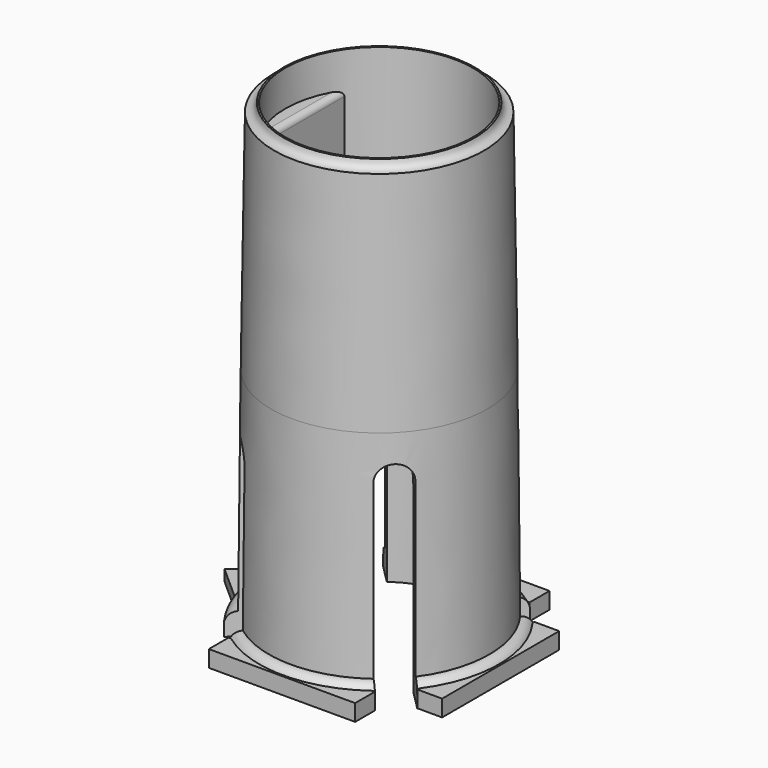
from build123d import *

# Parameters (mm, degrees)
POCKET023_DEPTH         = 31.087389
POCKET023_DEPTH_BACK    = 31.087389
POCKET024_DEPTH         = 31.087389
POCKET024_DEPTH_BACK    = 31.087389
PAD_DEPTH               = 36
PAD017_DEPTH            = 15
SKETCH146_R             = 1.1
POCKET047_DEPTH         = 59.131334
POCKET048_DEPTH         = 16
SKETCH148_R             = 1.9
POCKET049_DEPTH         = 10
SKETCH149_R             = 4.5
POCKET050_DEPTH         = 3
POCKET051_DEPTH         = 31.087389
FILLET_R                = 1
FILLET001_R             = 2
PAD019_DEPTH            = 2
SKETCH154_W             = 26.5
SKETCH154_H             = 4.5
SKETCH154_W_2           = 4.5
SKETCH154_H_2           = 26.5
PAD020_DEPTH            = 3
BODY021_PLACEMENT_ANGLE = 180


with BuildPart() as part:
    # Sketch102 → Revolution020 (revolve)
    with BuildSketch(Plane.XZ):
        with BuildLine():
            add(Edge.make_bspline(
                [(17.2, 32), (17, 35.527722), (10.885974, 39.508496), (5, 40)],
                knots=[0, 0, 0, 0, 1, 1, 1, 1], degree=3))
            Line((17.2, 32), (17.5, 0))
            Line((17.5, 0), (20, 0))
            Line((20, 0), (21.981396, 0))
            Line((21.981396, 0), (21.981396, 1.999913))
            ThreePointArc((21.981396, 1.999913), (21.389017, 3.420689), (19.962792, 3.999827))
            Line((19.962792, 3.999827), (19.6, 43))
            Line((19.6, 43), (19, 83.99561))
            add(Edge.make_bspline(
                [(17.3, 85.49561), (17.5, 83.99561), (19, 83.99561)],
                knots=[0, 0, 0, 1, 1, 1], degree=2))
            Line((17.3, 85.49561), (17, 85.49561))
            Line((17, 85.49561), (17, 83.99561))
            Line((17, 83.99561), (17, 43))
            Line((17, 43), (5, 43))
            Line((5, 43), (5, 40))
        make_face()
    revolve(axis=Axis((0, 0, 0), (0, 0, 1)))

    # Sketch103 → Pocket023 (cut, two sides)
    with BuildSketch(Plane(origin=(0, 0, 0), x_dir=(-0.707107, 0.707107, 0), z_dir=(0.707107, 0.707107, 0))) as pocket023_sk:
        with BuildLine():
            Line((-3, 30), (-3, 0))
            Line((-3, 0), (0, 0))
            Line((0, 0), (3, 0))
            Line((3, 30), (3, 0))
            ThreePointArc((3, 30), (0, 33), (-3, 30))
        make_face()
    extrude(amount=-POCKET023_DEPTH, mode=Mode.SUBTRACT)
    extrude(pocket023_sk.sketch, amount=POCKET023_DEPTH_BACK, mode=Mode.SUBTRACT)

    # Sketch104 → Pocket024 (cut, two sides)
    with BuildSketch(Plane(origin=(0, 0, 0), x_dir=(0.707107, 0.707107, 0), z_dir=(0.707107, -0.707107, 0))) as pocket024_sk:
        with BuildLine():
            Line((-3, 30), (-3, 0))
            Line((-3, 0), (0, 0))
            Line((0, 0), (3, 0))
            Line((3, 30), (3, 0))
            ThreePointArc((3, 30), (0, 33), (-3, 30))
        make_face()
    extrude(amount=-POCKET024_DEPTH, mode=Mode.SUBTRACT)
    extrude(pocket024_sk.sketch, amount=POCKET024_DEPTH_BACK, mode=Mode.SUBTRACT)

    # Sketch141 (on Plane of DatumPlane014) → Pad (join)
    with BuildSketch(Plane(origin=(0, 0, 43), x_dir=(-1, 0, 0), z_dir=(0, 0, 1))):
        with BuildLine():
            Line((-14, 0), (-14, 12.845233))
            ThreePointArc((-14, 12.845233), (-19, 0), (-14, -12.845233))
            Line((-14, 0), (-14, -12.845233))
        make_face()
    extrude(amount=PAD_DEPTH)

    # Sketch142 (on DatumPlane) → Pad017 (join)
    with BuildSketch(Plane(origin=(0, 0, 43), x_dir=(-1, 0, 0), z_dir=(0, 0, 1))):
        with BuildLine():
            ThreePointArc((3.4, 18.693314), (-18.834428, 2.502859), (-1.6, -18.932512))
            Line((-1.6, 8.693314), (-1.6, -18.932512))
            Line((-1.6, 8.693314), (1.4, 8.693314))
            ThreePointArc((1.4, 8.693314), (2.814214, 9.279101), (3.4, 10.693314))
            Line((3.4, 10.693314), (3.4, 18.693314))
        make_face()
    extrude(amount=PAD017_DEPTH)

    # Sketch146 (on Plane of DatumPlane014) → Pocket047 (cut, through all)
    with BuildSketch(Plane(origin=(-1.6, -12, 60), x_dir=(1, 0, 0), z_dir=(0, 0.390731, 0.920505))):
        Circle(SKETCH146_R)
    extrude(amount=-POCKET047_DEPTH, mode=Mode.SUBTRACT)

    # Sketch147 (on DatumPlane) → Pocket048 (cut, symmetric)
    with BuildSketch(Plane.XY.offset(43)):
        with BuildLine():
            ThreePointArc((-4, 4.472136), (0, -6), (4, 4.472136))
            Line((4, 4.472136), (4, 11.472136))
            ThreePointArc((4, 11.472136), (0, 15.472136), (-4, 11.472136))
            Line((-4, 4.472136), (-4, 11.472136))
        make_face()
    extrude(amount=POCKET048_DEPTH, both=True, mode=Mode.SUBTRACT)

    # Sketch148 → Pocket049 (cut)
    with BuildSketch(Plane.YZ.offset(20)):
        with Locations((0, 70.49561)):
            Circle(SKETCH148_R)
    extrude(amount=-POCKET049_DEPTH, mode=Mode.SUBTRACT)

    # Sketch149 → Pocket050 (cut)
    with BuildSketch(Plane.YZ.offset(20)):
        with Locations((0, 70.49561)):
            Circle(SKETCH149_R)
    extrude(amount=-POCKET050_DEPTH, mode=Mode.SUBTRACT)

    # Sketch150 → Pocket051 (cut, through all)
    with BuildSketch(Plane(origin=(0, 0, 0), x_dir=(0.707107, 0.707107, 0), z_dir=(0.707107, -0.707107, 0))):
        with BuildLine():
            Line((-3, 35), (-3, 0))
            Line((-3, 0), (0, 0))
            Line((0, 0), (3, 0))
            Line((3, 35), (3, 0))
            ThreePointArc((3, 35), (0, 38), (-3, 35))
        make_face()
    extrude(amount=-POCKET051_DEPTH, mode=Mode.SUBTRACT)

    # Fillet
    fillet_edges = [part.edges().sort_by_distance(p)[0] for p in [
        (14, -4.821825, 79),
        (14, 4.821825, 79),
    ]]
    fillet(fillet_edges, radius=FILLET_R)

    # Fillet001
    fillet001_edges = [part.edges().sort_by_distance(p)[0] for p in [
        (-2.44949, -5.477226, 39.8838),
        (-4, 8.069399, 39.160533),
        (3.151819, 13.935069, 36.381808),
        (-2.647379, 14.4707, 36.032817),
        (4, 8.069399, 39.160533),
        (5.477226, 2.44949, 39.8838),
    ]]
    fillet(fillet001_edges, radius=FILLET001_R)

    # Sketch153 → Pad019 (join)
    with BuildSketch(Plane.XY):
        Polygon((19, 0), (19, 8), (28, 0), (19, -8), align=None)
    extrude(amount=PAD019_DEPTH)

    # Sketch154 → Pad020 (join)
    with BuildSketch(Plane.XY):
        with Locations((0, 19.75)):
            Rectangle(SKETCH154_W, SKETCH154_H)
        with Locations((0, -19.75)):
            Rectangle(SKETCH154_W, SKETCH154_H)
        with Locations((-19.75, 0)):
            Rectangle(SKETCH154_W_2, SKETCH154_H_2)
    extrude(amount=PAD020_DEPTH)


with BuildPart() as part_1:
    # Body021 placement: moved
    add(part.part.moved(Location((0, 0, -275.8))).rotate(Axis((0, 0, -275.8), (0, 0, 1)), BODY021_PLACEMENT_ANGLE))


solid = part_1.part
